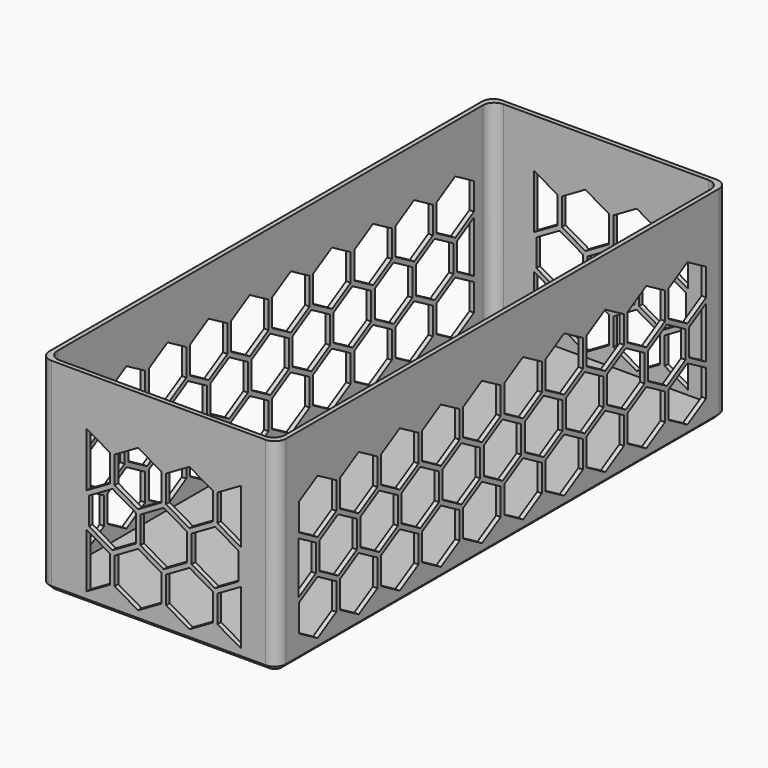
from build123d import *

# Parameters (mm, degrees)
F0_W      = 105
F0_H      = 250
F1_DEPTH  = 90
F2_W      = 101
F2_H      = 246
F3_DEPTH  = 87
F4_R      = 5
F5_R      = 5
F6_SIZE   = 2
F8_DEPTH  = 120
F10_DEPTH = 260


with BuildPart() as f1:
    # F0 (on Top) → F1 (new body)
    with BuildSketch(Plane.XY):
        with Locations((-4.369723, 72.974855)):
            Rectangle(F0_W, F0_H)
    extrude(amount=F1_DEPTH)

    # F2 (on face) → F3 (cut)
    with BuildSketch(Plane.XY.offset(90)):
        with Locations((-4.369723, 72.974855)):
            Rectangle(F2_W, F2_H)
    extrude(amount=-F3_DEPTH, mode=Mode.SUBTRACT)

    # F4
    f4_edges = [f1.edges().sort_by_distance(p)[0] for p in [
        (48.130277, -52.025145, 45),
        (-56.869723, -52.025145, 45),
        (48.130277, 197.974855, 45),
        (-56.869723, 197.974855, 45),
    ]]
    fillet(f4_edges, radius=F4_R)

    # F5
    f5_edges = [f1.edges().sort_by_distance(p)[0] for p in [
        (-54.869723, 195.974855, 46.5),
        (46.130277, 195.974855, 46.5),
        (-54.869723, -50.025145, 46.5),
        (46.130277, -50.025145, 46.5),
    ]]
    fillet(f5_edges, radius=F5_R)

    # F6
    f6_edges = [f1.edges().sort_by_distance(p)[0] for p in [
        (-4.369723, 197.974855, 0),
        (46.665811, 196.510389, 0),
        (-55.405257, 196.510389, 0),
        (48.130277, 72.974855, 0),
        (-56.869723, 72.974855, 0),
        (46.665811, -50.560679, 0),
        (-55.405257, -50.560679, 0),
        (-4.369723, -52.025145, 0),
    ]]
    chamfer(f6_edges, length=F6_SIZE)

    # F7 (on face) → F8 (cut)
    with BuildSketch(Plane(origin=(-56.869723, 0, 0), x_dir=(0, -1, 0), z_dir=(-1, 0, 0))):
        Polygon((40.025145, 25.220545), (40.025145, 48.243557), (30.478937, 42.732051), (30.478937, 30.732051), align=None)
        Polygon((-175.58255, 44.464102), (-165.190246, 50.464102), (-165.190246, 62.464102), (-175.58255, 68.464102), (-185.974855, 62.464102), (-185.974855, 50.464102), align=None)
        Polygon((-152.797941, 44.464102), (-142.405636, 50.464102), (-142.405636, 62.464102), (-152.797941, 68.464102), (-163.190246, 62.464102), (-163.190246, 50.464102), align=None)
        Polygon((-130.013331, 44.464102), (-119.621026, 50.464102), (-119.621026, 62.464102), (-130.013331, 68.464102), (-140.405636, 62.464102), (-140.405636, 50.464102), align=None)
        Polygon((-107.228721, 44.464102), (-96.836417, 50.464102), (-96.836417, 62.464102), (-107.228721, 68.464102), (-117.621026, 62.464102), (-117.621026, 50.464102), align=None)
        Polygon((-84.444112, 44.464102), (-74.051807, 50.464102), (-74.051807, 62.464102), (-84.444112, 68.464102), (-94.836417, 62.464102), (-94.836417, 50.464102), align=None)
        Polygon((-61.659502, 44.464102), (-51.267197, 50.464102), (-51.267197, 62.464102), (-61.659502, 68.464102), (-72.051807, 62.464102), (-72.051807, 50.464102), align=None)
        Polygon((-38.874892, 44.464102), (-28.482587, 50.464102), (-28.482587, 62.464102), (-38.874892, 68.464102), (-49.267197, 62.464102), (-49.267197, 50.464102), align=None)
        Polygon((-16.090283, 44.464102), (-5.697978, 50.464102), (-5.697978, 62.464102), (-16.090283, 68.464102), (-26.482587, 62.464102), (-26.482587, 50.464102), align=None)
        Polygon((6.694327, 44.464102), (17.086632, 50.464102), (17.086632, 62.464102), (6.694327, 68.464102), (-3.697978, 62.464102), (-3.697978, 50.464102), align=None)
        Polygon((29.478937, 44.464102), (39.871242, 50.464102), (39.871242, 62.464102), (29.478937, 68.464102), (19.086632, 62.464102), (19.086632, 50.464102), align=None)
        Polygon((-185.974855, 25.309401), (-176.58255, 30.732051), (-176.58255, 42.732051), (-185.974855, 48.154701), align=None)
        Polygon((-141.405636, 24.732051), (-131.013331, 30.732051), (-131.013331, 42.732051), (-141.405636, 48.732051), (-151.797941, 42.732051), (-151.797941, 30.732051), align=None)
        Polygon((-118.621026, 24.732051), (-108.228721, 30.732051), (-108.228721, 42.732051), (-118.621026, 48.732051), (-129.013331, 42.732051), (-129.013331, 30.732051), align=None)
        Polygon((-95.836417, 24.732051), (-85.444112, 30.732051), (-85.444112, 42.732051), (-95.836417, 48.732051), (-106.228721, 42.732051), (-106.228721, 30.732051), align=None)
        Polygon((-73.051807, 24.732051), (-62.659502, 30.732051), (-62.659502, 42.732051), (-73.051807, 48.732051), (-83.444112, 42.732051), (-83.444112, 30.732051), align=None)
        Polygon((-50.267197, 24.732051), (-39.874892, 30.732051), (-39.874892, 42.732051), (-50.267197, 48.732051), (-60.659502, 42.732051), (-60.659502, 30.732051), align=None)
        Polygon((-27.482587, 24.732051), (-17.090283, 30.732051), (-17.090283, 42.732051), (-27.482587, 48.732051), (-37.874892, 42.732051), (-37.874892, 30.732051), align=None)
        Polygon((-4.697978, 24.732051), (5.694327, 30.732051), (5.694327, 42.732051), (-4.697978, 48.732051), (-15.090283, 42.732051), (-15.090283, 30.732051), align=None)
        Polygon((18.086632, 24.732051), (28.478937, 30.732051), (28.478937, 42.732051), (18.086632, 48.732051), (7.694327, 42.732051), (7.694327, 30.732051), align=None)
        Polygon((-164.190246, 24.732051), (-153.797941, 30.732051), (-153.797941, 42.732051), (-164.190246, 48.732051), (-174.58255, 42.732051), (-174.58255, 30.732051), align=None)
        Polygon((-175.58255, 5), (-165.190246, 11), (-165.190246, 23), (-175.58255, 29), (-185.974855, 23), (-185.974855, 11), align=None)
        Polygon((-152.797941, 5), (-142.405636, 11), (-142.405636, 23), (-152.797941, 29), (-163.190246, 23), (-163.190246, 11), align=None)
        Polygon((-130.013331, 5), (-119.621026, 11), (-119.621026, 23), (-130.013331, 29), (-140.405636, 23), (-140.405636, 11), align=None)
        Polygon((-107.228721, 5), (-96.836417, 11), (-96.836417, 23), (-107.228721, 29), (-117.621026, 23), (-117.621026, 11), align=None)
        Polygon((-84.444112, 5), (-74.051807, 11), (-74.051807, 23), (-84.444112, 29), (-94.836417, 23), (-94.836417, 11), align=None)
        Polygon((-61.659502, 5), (-51.267197, 11), (-51.267197, 23), (-61.659502, 29), (-72.051807, 23), (-72.051807, 11), align=None)
        Polygon((-38.874892, 5), (-28.482587, 11), (-28.482587, 23), (-38.874892, 29), (-49.267197, 23), (-49.267197, 11), align=None)
        Polygon((-16.090283, 5), (-5.697978, 11), (-5.697978, 23), (-16.090283, 29), (-26.482587, 23), (-26.482587, 11), align=None)
        Polygon((6.694327, 5), (17.086632, 11), (17.086632, 23), (6.694327, 29), (-3.697978, 23), (-3.697978, 11), align=None)
        Polygon((29.478937, 5), (39.871242, 11), (39.871242, 23), (29.478937, 29), (19.086632, 23), (19.086632, 11), align=None)
    extrude(amount=-F8_DEPTH, mode=Mode.SUBTRACT)

    # F9 (on face) → F10 (cut)
    with BuildSketch(Plane(origin=(0, 197.974855, 0), x_dir=(-1, 0, 0), z_dir=(0, 1, 0))):
        Polygon((-21.727146, 23.000003), (-32.119451, 29), (-32.119451, 5), (-21.727146, 11.000003), align=None)
        Polygon((-32.119451, 44.464102), (-21.727146, 50.464102), (-21.727146, 62.464102), (-32.119451, 68.464102), align=None)
        Polygon((-9.334841, 44.464102), (1.057464, 50.464102), (1.057464, 62.464102), (-9.334841, 68.464102), (-19.727146, 62.464102), (-19.727146, 50.464102), align=None)
        Polygon((13.449769, 44.464102), (23.842073, 50.464102), (23.842073, 62.464102), (13.449769, 68.464102), (3.057464, 62.464102), (3.057464, 50.464102), align=None)
        Polygon((25.842073, 50.464102), (36.234378, 44.464102), (36.234378, 68.464102), (25.842073, 62.464102), align=None)
        Polygon((36.234378, 5), (36.234378, 29), (25.842073, 23), (25.842073, 11), align=None)
        Polygon((-20.727146, 24.732051), (-10.334841, 30.732051), (-10.334841, 42.732051), (-20.727146, 48.732051), (-31.119451, 42.732051), (-31.119451, 30.732051), align=None)
        Polygon((2.057464, 24.732051), (12.449769, 30.732051), (12.449769, 42.732051), (2.057464, 48.732051), (-8.334841, 42.732051), (-8.334841, 30.732051), align=None)
        Polygon((24.842073, 24.732051), (35.234378, 30.732051), (35.234378, 42.732051), (24.842073, 48.732051), (14.449769, 42.732051), (14.449769, 30.732051), align=None)
        Polygon((-9.334841, 5), (1.057464, 11), (1.057464, 23), (-9.334841, 29), (-19.727146, 23), (-19.727146, 11), align=None)
        Polygon((13.449769, 5), (23.842073, 11), (23.842073, 23), (13.449769, 29), (3.057464, 23), (3.057464, 11), align=None)
    extrude(amount=-F10_DEPTH, mode=Mode.SUBTRACT)


solid = f1.part
